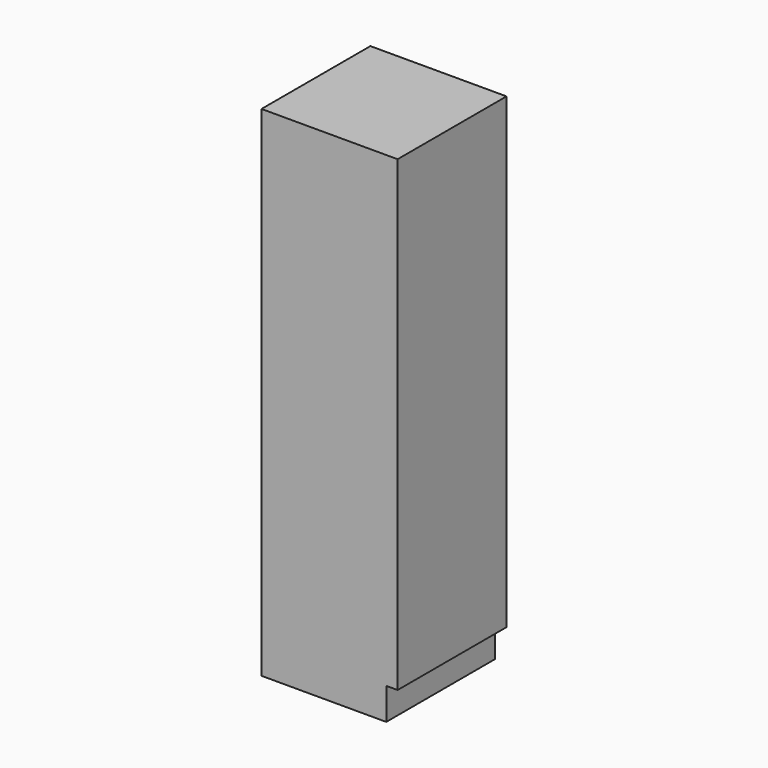
from build123d import *

# Parameters (mm, degrees)
F1_DEPTH = 600
F0_W     = 600
F0_H     = 1340
F2_DEPTH = 600


with BuildPart() as f1:
    # F0 (on Front) → F1 (new body)
    with BuildSketch(Plane.XZ):
        Polygon((0, 860), (0, 0), (550, 0), (550, 140), (600, 140), (600, 860), align=None)
    extrude(amount=F1_DEPTH)


with BuildPart() as f2:
    # F0 (on Front) → F2 (new body)
    with BuildSketch(Plane.XZ):
        with Locations((300, 1530)):
            Rectangle(F0_W, F0_H)
        Polygon((0, 860), (0, 0), (550, 0), (550, 140), (600, 140), (600, 860), align=None)
    extrude(amount=F2_DEPTH)


solid = Compound([f1.part, f2.part])
